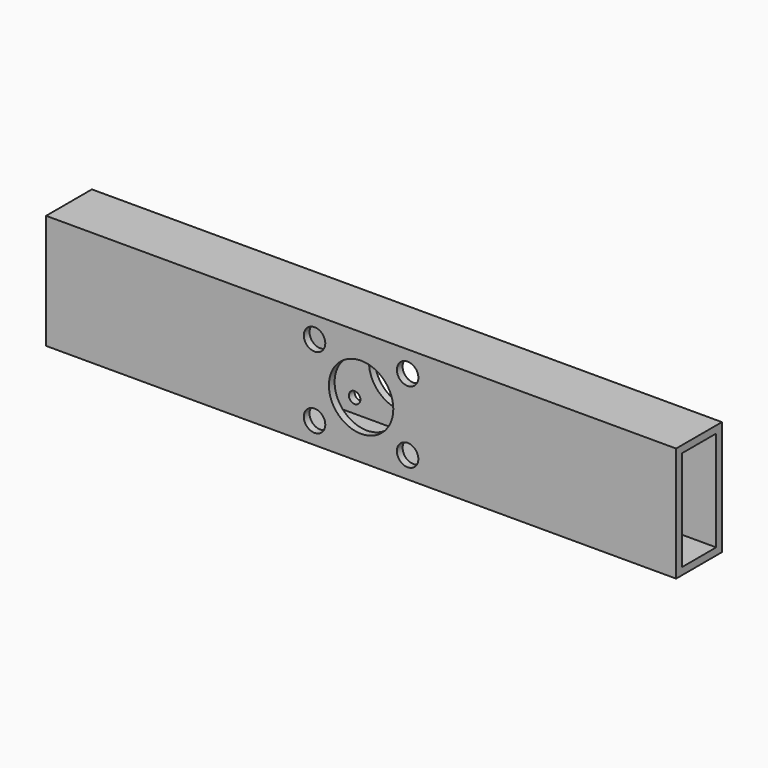
from build123d import *

# Parameters (mm, degrees)
F0_W          = 25.4
F0_H          = 50.8
F0_W_2        = 19.05
F0_H_2        = 44.45
F1_DEPTH      = 139.7
F1_DEPTH_BACK = 139.7
F2_R          = 14.2875
F3_DEPTH      = 25.4
F4_R          = 2.5527
F5_DEPTH      = 25.4
F6_R          = 4.7625
F7_DEPTH      = 3.175


with BuildPart() as f1:
    # F0 (on Right) → F1 (new body, two sides)
    with BuildSketch(Plane.YZ) as f1_sk:
        with Locations((-12.7, 0)):
            Rectangle(F0_W, F0_H)
        with Locations((-12.7, 0)):
            Rectangle(F0_W_2, F0_H_2, mode=Mode.SUBTRACT)
    extrude(amount=F1_DEPTH)
    extrude(f1_sk.sketch, amount=-F1_DEPTH_BACK)

    # F2 (on Front) → F3 (cut)
    with BuildSketch(Plane.XZ):
        Circle(F2_R)
    extrude(amount=F3_DEPTH, mode=Mode.SUBTRACT)

    # F4 (on face) → F5 (cut)
    with BuildSketch(Plane.XZ.offset(25.4)):
        with Locations((20.6375, -15.875)):
            Circle(F4_R)
        with Locations((20.6375, 15.875)):
            Circle(F4_R)
        with Locations((-20.6375, 15.875)):
            Circle(F4_R)
        with Locations((-20.6375, -15.875)):
            Circle(F4_R)
    extrude(amount=-F5_DEPTH, mode=Mode.SUBTRACT)

    # F6 (on face) → F7 (cut)
    with BuildSketch(Plane.XZ.offset(25.4)):
        with Locations((20.6375, 15.875)):
            Circle(F6_R)
        with Locations((20.6375, -15.875)):
            Circle(F6_R)
        with Locations((-20.6375, -15.875)):
            Circle(F6_R)
        with Locations((-20.6375, 15.875)):
            Circle(F6_R)
    extrude(amount=-F7_DEPTH, mode=Mode.SUBTRACT)


solid = f1.part
